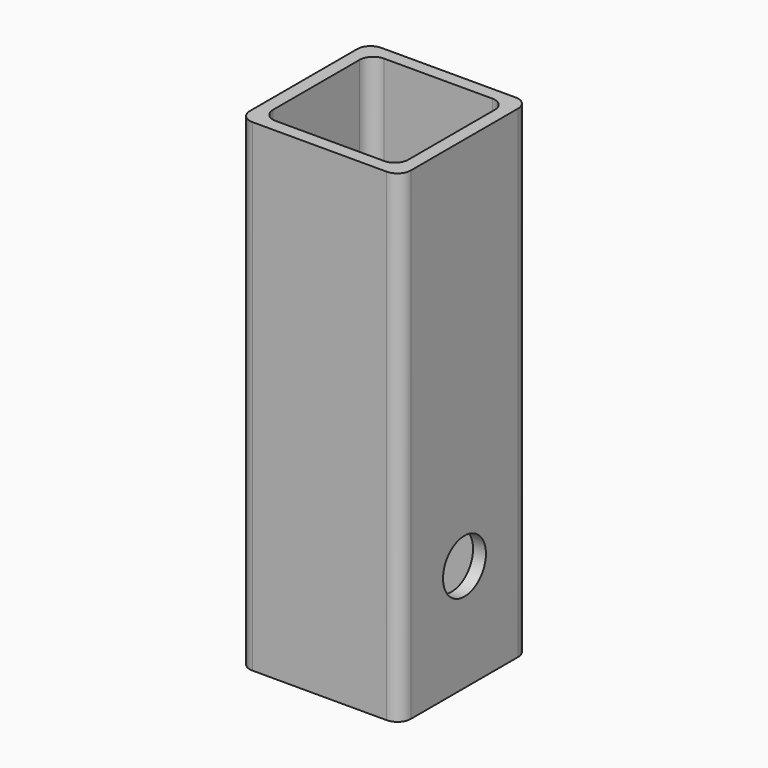
from build123d import *

# Parameters (mm, degrees)
F1_DEPTH = 114.3
F2_R     = 6.35
F3_DEPTH = 6.35


with BuildPart() as f1:
    # F0 (on Top) → F1 (new body)
    with BuildSketch(Plane.XY):
        with BuildLine():
            Line((15.875, 19.05), (-15.875, 19.05))
            ThreePointArc((-15.875, 19.05), (-18.120064, 18.120064), (-19.05, 15.875))
            Line((-19.05, 15.875), (-19.05, -15.875))
            ThreePointArc((-19.05, -15.875), (-18.120064, -18.120064), (-15.875, -19.05))
            Line((-15.875, -19.05), (15.875, -19.05))
            ThreePointArc((15.875, -19.05), (18.120064, -18.120064), (19.05, -15.875))
            Line((19.05, -15.875), (19.05, 15.875))
            ThreePointArc((19.05, 15.875), (18.120064, 18.120064), (15.875, 19.05))
        make_face()
        with BuildLine():
            Line((-16.002, -12.827), (-16.002, 12.827))
            ThreePointArc((-16.002, 12.827), (-15.072064, 15.072064), (-12.827, 16.002))
            Line((-12.827, 16.002), (12.827, 16.002))
            ThreePointArc((12.827, 16.002), (15.072064, 15.072064), (16.002, 12.827))
            Line((16.002, 12.827), (16.002, -12.827))
            ThreePointArc((16.002, -12.827), (15.072064, -15.072064), (12.827, -16.002))
            Line((12.827, -16.002), (-12.827, -16.002))
            ThreePointArc((-12.827, -16.002), (-15.072064, -15.072064), (-16.002, -12.827))
        make_face(mode=Mode.SUBTRACT)
    extrude(amount=-F1_DEPTH)

    # F2 (on face) → F3 (cut)
    with BuildSketch(Plane.YZ.offset(19.05)):
        with Locations((0, -88.9)):
            Circle(F2_R)
    extrude(amount=-F3_DEPTH, mode=Mode.SUBTRACT)


solid = f1.part
